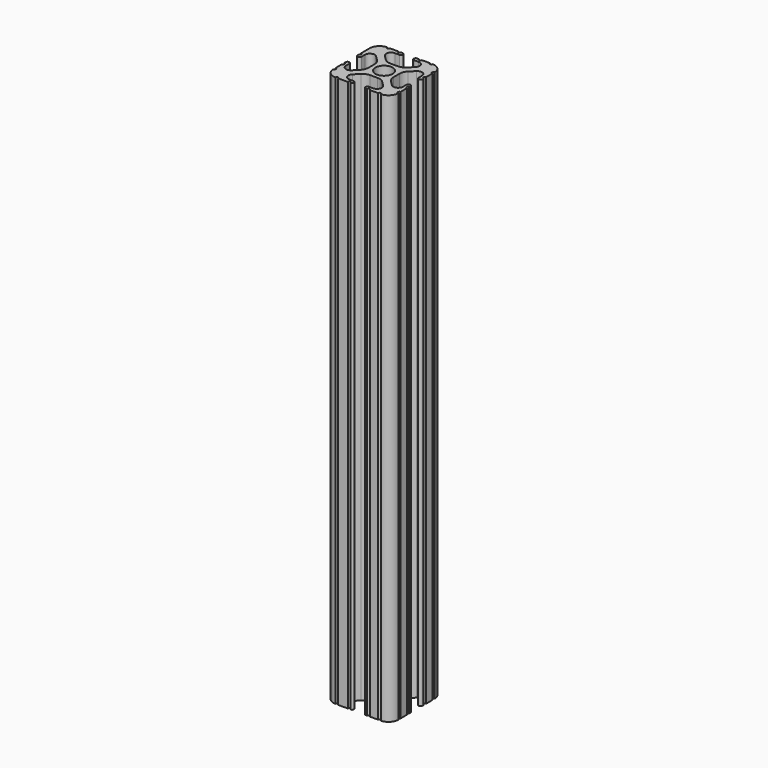
from build123d import *

# Parameters (mm, degrees)
F0_R     = 3.362501
F1_DEPTH = 215.9


with BuildPart() as f1:
    # F0 (on Top) → F1 (new body)
    with BuildSketch(Plane.XY):
        with BuildLine():
            ThreePointArc((-8.548576, 18.755238), (-9.784629, 17.929334), (-11.242653, 17.639315))
            Line((-11.242653, 17.639315), (-14.157347, 17.639315))
            ThreePointArc((-14.157347, 17.639315), (-15.615371, 17.929334), (-16.851424, 18.755238))
            Line((-16.851424, 18.755238), (-18.696905, 20.600719))
            ThreePointArc((-18.696905, 20.600719), (-19.109857, 22.67677), (-17.349867, 23.852758))
            Line((-17.349867, 23.852758), (-15.615371, 23.852758))
            Line((-15.615371, 23.852758), (-15.58302, 23.852758))
            ThreePointArc((-15.58302, 23.852758), (-14.825405, 24.626379), (-15.58302, 25.4))
            Line((-15.58302, 25.4), (-15.615371, 25.4))
            Line((-15.615371, 25.4), (-16.253341, 25.4))
            ThreePointArc((-16.253341, 25.4), (-16.801604, 24.858772), (-17.349867, 25.4))
            Line((-17.349867, 25.4), (-20.487482, 25.4))
            ThreePointArc((-20.487482, 25.4), (-21.038741, 24.848741), (-21.59, 25.4))
            ThreePointArc((-21.59, 25.4), (-24.284077, 24.284077), (-25.4, 21.59))
            Line((-25.4, 21.59), (-25.4, 20.504724))
            Line((-25.4, 20.504724), (-25.4, 17.349867))
            ThreePointArc((-25.4, 17.349867), (-24.844161, 16.802675), (-25.4, 16.255483))
            Line((-25.4, 16.255483), (-25.4, 15.615371))
            ThreePointArc((-25.4, 15.615371), (-24.626379, 14.859554), (-23.852758, 15.615371))
            Line((-23.852758, 15.615371), (-23.852758, 17.349867))
            ThreePointArc((-23.852758, 17.349867), (-22.67677, 19.109857), (-20.600719, 18.696905))
            Line((-20.600719, 18.696905), (-18.755238, 16.851424))
            ThreePointArc((-18.755238, 16.851424), (-17.929334, 15.615371), (-17.639315, 14.157347))
            Line((-17.639315, 14.157347), (-17.639315, 11.242653))
            ThreePointArc((-17.639315, 11.242653), (-17.929334, 9.784629), (-18.755238, 8.548576))
            Line((-18.755238, 8.548576), (-20.600719, 6.703095))
            ThreePointArc((-20.600719, 6.703095), (-22.67677, 6.290143), (-23.852758, 8.050133))
            Line((-23.852758, 8.050133), (-23.852758, 9.784629))
            ThreePointArc((-23.852758, 9.784629), (-24.626379, 10.55825), (-25.4, 9.784629))
            Line((-25.4, 9.784629), (-25.4, 9.149239))
            ThreePointArc((-25.4, 9.149239), (-24.899374, 8.599686), (-25.4, 8.050133))
            Line((-25.4, 8.050133), (-25.4, 4.904538))
            ThreePointArc((-25.4, 4.904538), (-24.846216, 4.357269), (-25.4, 3.81))
            ThreePointArc((-25.4, 3.81), (-24.284077, 1.115923), (-21.59, 0))
            ThreePointArc((-21.59, 0), (-21.040817, 0.554885), (-20.491634, 0))
            Line((-20.491634, 0), (-16.708169, 0))
            ThreePointArc((-16.708169, 0), (-16.16177, 0.540135), (-15.615371, 0))
            ThreePointArc((-15.615371, 0), (-14.854184, 0.7747), (-15.615371, 1.5494))
            Line((-15.615371, 1.5494), (-17.347709, 1.5494))
            ThreePointArc((-17.347709, 1.5494), (-19.107699, 2.725388), (-18.694747, 4.801438))
            Line((-18.694747, 4.801438), (-16.851424, 6.644762))
            ThreePointArc((-16.851424, 6.644762), (-15.615371, 7.470666), (-14.157347, 7.760685))
            Line((-14.157347, 7.760685), (-11.242653, 7.760685))
            ThreePointArc((-11.242653, 7.760685), (-9.784629, 7.470666), (-8.548576, 6.644762))
            Line((-8.548576, 6.644762), (-6.705253, 4.801438))
            ThreePointArc((-6.705253, 4.801438), (-6.292301, 2.725388), (-8.052291, 1.5494))
            Line((-8.052291, 1.5494), (-9.784629, 1.5494))
            ThreePointArc((-9.784629, 1.5494), (-10.401836, 0.7747), (-9.784629, 0))
            Line((-9.784629, 0), (-9.152868, 0))
            ThreePointArc((-9.152868, 0), (-8.602579, 0.545262), (-8.052291, 0))
            Line((-8.052291, 0), (-4.898866, 0))
            ThreePointArc((-4.898866, 0), (-4.354433, 0.544433), (-3.81, 0))
            ThreePointArc((-3.81, 0), (-1.115923, 1.115923), (0, 3.81))
            ThreePointArc((0, 3.81), (-0.53938, 4.3561), (0, 4.9022))
            Line((0, 4.9022), (0, 8.052291))
            ThreePointArc((0, 8.052291), (-0.543517, 8.60166), (0, 9.151029))
            Line((0, 9.151029), (0, 9.784629))
            ThreePointArc((0, 9.784629), (-0.7747, 10.504691), (-1.5494, 9.784629))
            Line((-1.5494, 9.784629), (-1.5494, 8.052291))
            ThreePointArc((-1.5494, 8.052291), (-2.725388, 6.292301), (-4.801438, 6.705253))
            Line((-4.801438, 6.705253), (-6.644762, 8.548576))
            ThreePointArc((-6.644762, 8.548576), (-7.470666, 9.784629), (-7.760685, 11.242653))
            Line((-7.760685, 11.242653), (-7.760685, 14.157347))
            ThreePointArc((-7.760685, 14.157347), (-7.470666, 15.615371), (-6.644762, 16.851424))
            Line((-6.644762, 16.851424), (-4.801438, 18.694747))
            ThreePointArc((-4.801438, 18.694747), (-2.725388, 19.107699), (-1.5494, 17.347709))
            Line((-1.5494, 17.347709), (-1.5494, 15.615371))
            ThreePointArc((-1.5494, 15.615371), (-0.7747, 14.879405), (0, 15.615371))
            Line((0, 15.615371), (0, 16.255509))
            ThreePointArc((0, 16.255509), (-0.5461, 16.801609), (0, 17.347709))
            Line((0, 17.347709), (0, 20.495165))
            ThreePointArc((0, 20.495165), (-0.551056, 21.042583), (0, 21.59))
            ThreePointArc((0, 21.59), (-1.115923, 24.284077), (-3.81, 25.4))
            ThreePointArc((-3.81, 25.4), (-4.365303, 24.903619), (-4.920606, 25.4))
            Line((-4.920606, 25.4), (-8.050133, 25.4))
            ThreePointArc((-8.050133, 25.4), (-8.596365, 24.859433), (-9.142596, 25.4))
            Line((-9.142596, 25.4), (-9.784629, 25.4))
            Line((-9.784629, 25.4), (-9.856203, 25.4))
            ThreePointArc((-9.856203, 25.4), (-10.594864, 24.626379), (-9.856203, 23.852758))
            Line((-9.856203, 23.852758), (-9.784629, 23.852758))
            Line((-9.784629, 23.852758), (-8.050133, 23.852758))
            ThreePointArc((-8.050133, 23.852758), (-6.290143, 22.67677), (-6.703095, 20.600719))
            Line((-6.703095, 20.600719), (-8.548576, 18.755238))
        make_face()
        with Locations((-12.7, 12.7)):
            Circle(F0_R, mode=Mode.SUBTRACT)
        with BuildLine():
            ThreePointArc((-9.856203, 23.852758), (-9.820416, 23.851931), (-9.784629, 23.852758))
            Line((-9.784629, 23.852758), (-9.856203, 23.852758))
        make_face()
        with BuildLine():
            Line((-15.58302, 23.852758), (-15.615371, 23.852758))
            ThreePointArc((-15.615371, 23.852758), (-15.599195, 23.852589), (-15.58302, 23.852758))
        make_face()
        with BuildLine():
            ThreePointArc((-9.784629, 25.4), (-9.820416, 25.400827), (-9.856203, 25.4))
            Line((-9.856203, 25.4), (-9.784629, 25.4))
        make_face()
        with BuildLine():
            Line((-15.615371, 25.4), (-15.58302, 25.4))
            ThreePointArc((-15.58302, 25.4), (-15.599195, 25.400169), (-15.615371, 25.4))
        make_face()
    extrude(amount=F1_DEPTH)


solid = f1.part
